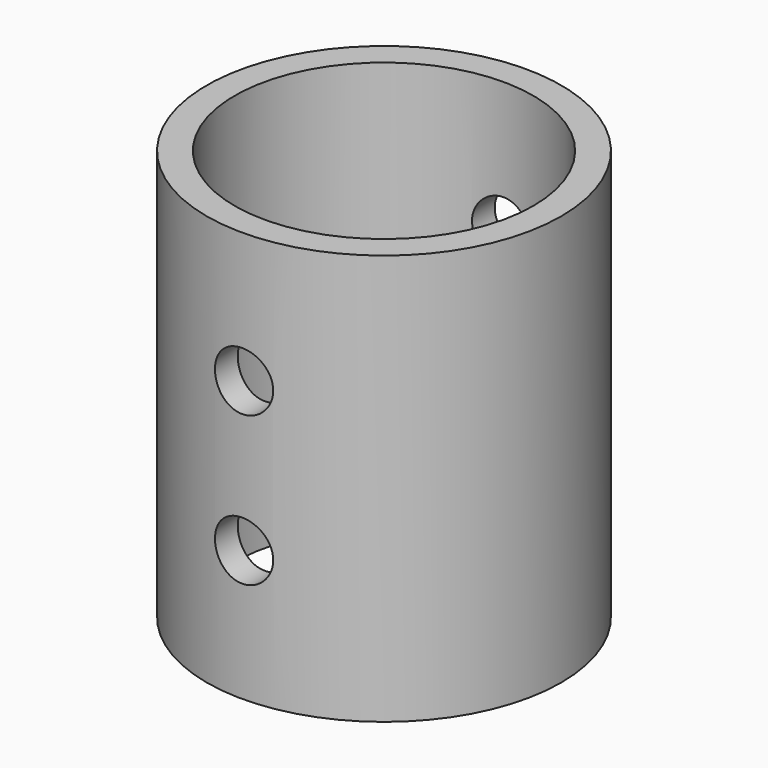
from build123d import *

# Parameters (mm, degrees)
F0_R     = 30.1625
F0_R_2   = 25.4
F1_DEPTH = 69.85
F2_R     = 4.953
F3_DEPTH = 31.75


with BuildPart() as f1:
    # F0 (on Top) → F1 (new body)
    with BuildSketch(Plane.XY):
        Circle(F0_R)
        Circle(F0_R_2, mode=Mode.SUBTRACT)
    extrude(amount=F1_DEPTH)

    # F2 (on Front) → F3 (cut, symmetric)
    with BuildSketch(Plane.XZ):
        with Locations((0, 47.625)):
            Circle(F2_R)
        with Locations((0, 22.225)):
            Circle(F2_R)
    extrude(amount=F3_DEPTH, both=True, mode=Mode.SUBTRACT)


solid = f1.part
